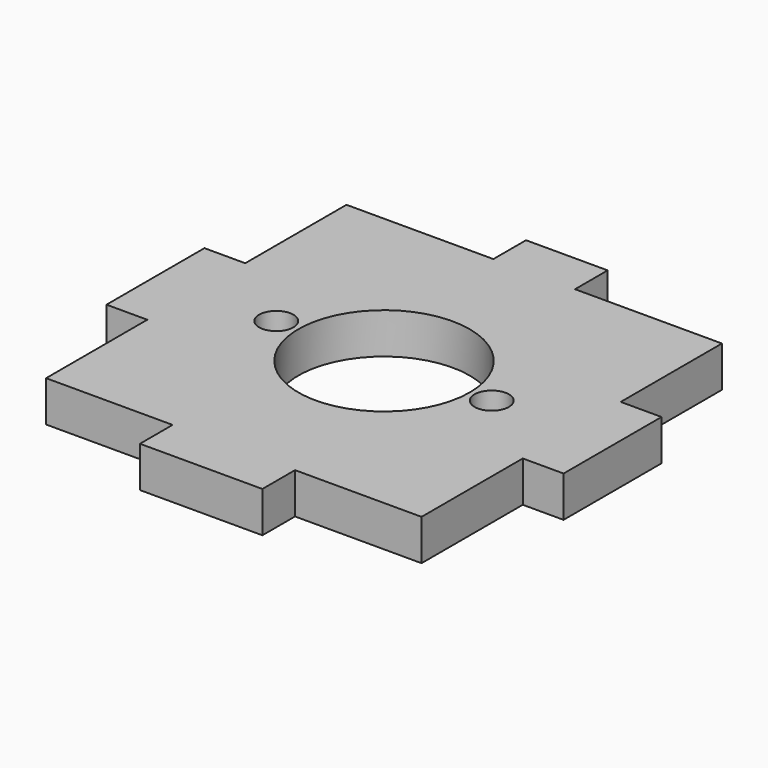
from build123d import *

# Parameters (mm, degrees)
F1_R     = 2.1
F1_R_2   = 10.5
F2_DEPTH = 5


with BuildPart() as f2:
    # F1 (on Top) → F2 (new body)
    with BuildSketch(Plane.XY):
        Polygon((0, 15.5), (0, 0), (15.5, 0), (15.5, -5), (30.5, -5), (30.5, 0), (46, 0), (46, 15.5), (51, 15.5), (51, 30.5), (46, 30.5), (46, 46), (28, 46), (28, 51), (18, 51), (18, 46), (0, 46), (0, 30.5), (-5, 30.5), (-5, 15.5), align=None)
        with Locations((9.8, 23)):
            Circle(F1_R, mode=Mode.SUBTRACT)
        with Locations((23, 23)):
            Circle(F1_R_2, mode=Mode.SUBTRACT)
        with Locations((36.2, 23)):
            Circle(F1_R, mode=Mode.SUBTRACT)
    extrude(amount=F2_DEPTH)


solid = f2.part
